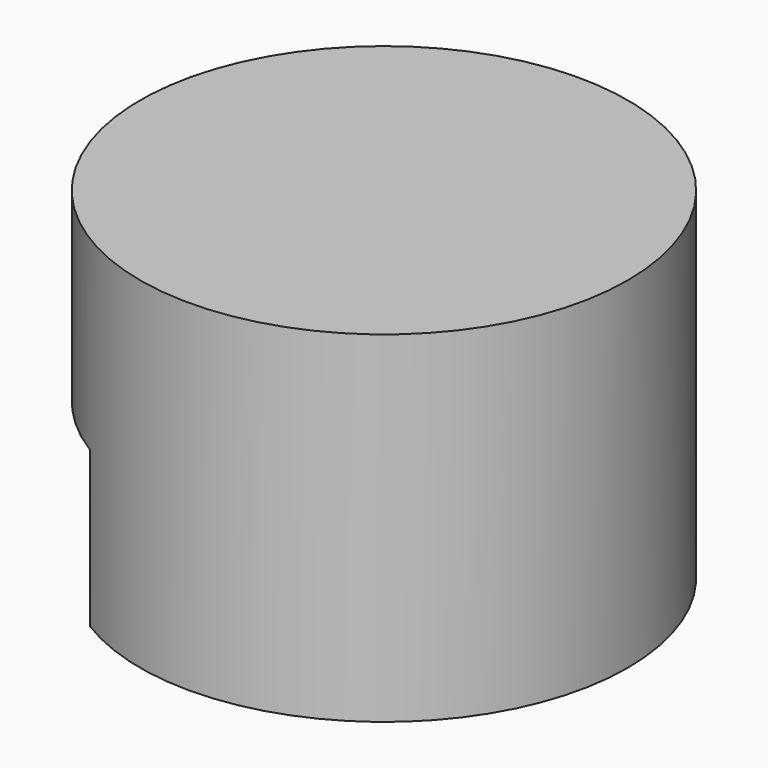
from build123d import *

# Parameters (mm, degrees)
F0_R     = 50.161527
F1_DEPTH = 70.185848
F3_W     = 76.66456
F3_H     = 91.220892
F4_DEPTH = 31.973936


with BuildPart() as f1:
    # F0 (on Top) → F1 (new body)
    with BuildSketch(Plane.XY):
        Circle(F0_R)
    extrude(amount=F1_DEPTH)

    # F3 (on face) → F4 (cut)
    with BuildSketch(Plane(origin=(0, 0, 0), x_dir=(1, 0, 0), z_dir=(0, 0, -1))):
        with Locations((-51.117245, -2.894435)):
            Rectangle(F3_W, F3_H)
    extrude(amount=-F4_DEPTH, mode=Mode.SUBTRACT)


solid = f1.part
